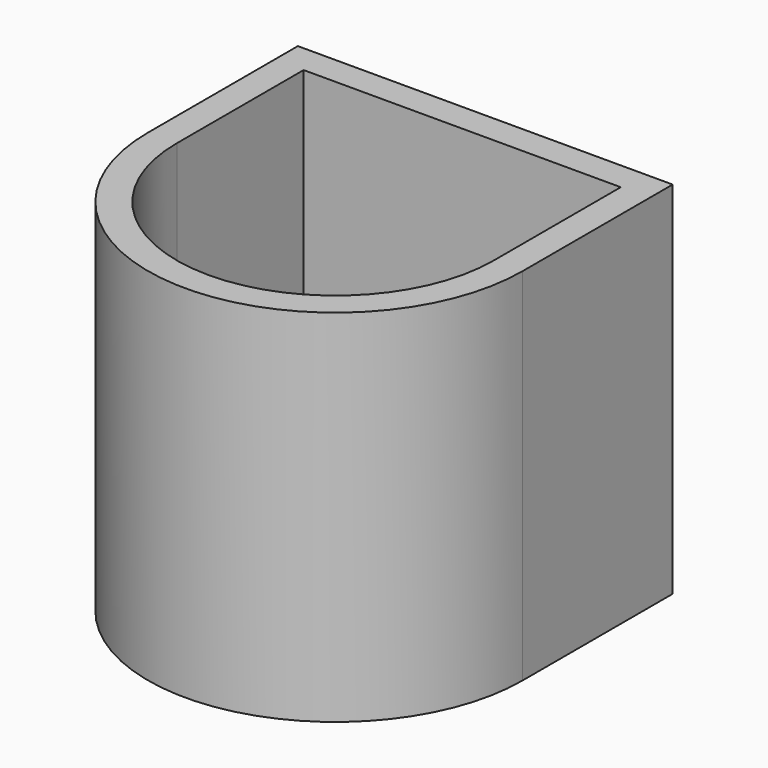
from build123d import *

# Parameters (mm, degrees)
PAD_DEPTH       = 25
POCKET_DEPTH    = 23
SKETCH002_R     = 8.25
POCKET001_DEPTH = 25


with BuildPart() as part:
    # Sketch → Pad (new body)
    with BuildSketch(Plane.XY):
        with BuildLine():
            Line((-13, 0), (-13, 13))
            Line((-13, 13), (13, 13))
            Line((13, 13), (13, 0))
            ThreePointArc((-13, 0), (0, -13), (13, 0))
        make_face()
    extrude(amount=PAD_DEPTH)

    # Sketch001 (on DatumPlane) → Pocket (cut)
    with BuildSketch(Plane.XY.offset(25)):
        with BuildLine():
            Line((-11, 0), (-11, 11))
            Line((-11, 11), (11, 11))
            Line((11, 11), (11, 0))
            ThreePointArc((-11, 0), (0, -11), (11, 0))
        make_face()
    extrude(amount=-POCKET_DEPTH, mode=Mode.SUBTRACT)

    # Sketch002 (on DatumPlane) → Pocket001 (cut)
    with BuildSketch(Plane.XY.offset(25)):
        Circle(SKETCH002_R)
    extrude(amount=-POCKET001_DEPTH, mode=Mode.SUBTRACT)


solid = part.part
